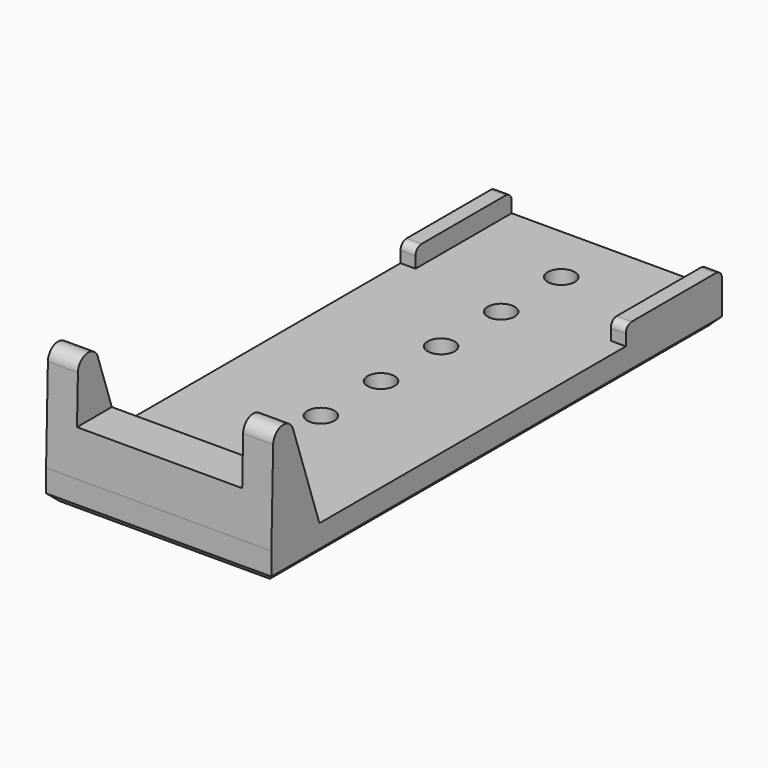
from build123d import *

# Parameters (mm, degrees)
SKETCH_W        = 30
SKETCH_H        = 75
PAD_DEPTH       = 20
POCKET_DEPTH    = 30.001
POCKET001_DEPTH = 30.001
SKETCH003_R     = 1.8
POCKET002_DEPTH = 18.001
SKETCH004_W     = 22
SKETCH004_H     = 10
POCKET003_DEPTH = 75.001
SKETCH005_W     = 1.992782
SKETCH005_H     = 16
SKETCH005_W_2   = 2
PAD001_DEPTH    = 2.5
FILLET_R        = 1
CHAMFER_SIZE    = 1


with BuildPart() as part:
    # Sketch → Pad (new body)
    with BuildSketch(Plane.XY):
        with Locations((0, 50.5)):
            Rectangle(SKETCH_W, SKETCH_H)
    extrude(amount=PAD_DEPTH)

    # Sketch001 → Pocket (cut, through all)
    with BuildSketch(Plane(origin=(-15, 0, 0), x_dir=(0, -1, 0), z_dir=(-1, 0, 0))):
        Polygon((-90.237335, 21), (-17.197588, 21), (-21.197588, 4), (-90.237335, 4), align=None)
    extrude(amount=-POCKET_DEPTH, mode=Mode.SUBTRACT)

    # Sketch002 → Pocket001 (cut, through all)
    with BuildSketch(Plane(origin=(-15, 0, 0), x_dir=(0, -1, 0), z_dir=(-1, 0, 0))):
        with BuildLine():
            ThreePointArc((-13.300504, 16.341381), (-14.741789, 17.980276), (-16.608656, 16.849752))
            Line((-16.608656, 16.849752), (-21.00001, 4))
            Line((-25, 4), (-21.00001, 4))
            Line((-25, 18.137928), (-25, 4))
            Line((-25, 18.137928), (-12.210917, 22))
            Line((-12.210917, 22), (-13, 4))
            Line((-13, 4), (-13.300504, 16.341381))
        make_face()
    extrude(amount=-POCKET001_DEPTH, mode=Mode.SUBTRACT)

    # Sketch003 → Pocket002 (cut, through all)
    with BuildSketch(Plane(origin=(0, 0, 0), x_dir=(1, 0, 0), z_dir=(0, 0, -1))):
        with Locations((0, -80)):
            Circle(SKETCH003_R)
        with Locations((0, -70)):
            Circle(SKETCH003_R)
        with Locations((0, -60)):
            Circle(SKETCH003_R)
        with Locations((0, -50)):
            Circle(SKETCH003_R)
        with Locations((0, -40)):
            Circle(SKETCH003_R)
        with Locations((0, -30)):
            Circle(SKETCH003_R)
    extrude(amount=-POCKET002_DEPTH, mode=Mode.SUBTRACT)

    # Sketch004 → Pocket003 (cut, through all)
    with BuildSketch(Plane.XZ.offset(-13)):
        with Locations((0, 15)):
            Rectangle(SKETCH004_W, SKETCH004_H)
    extrude(amount=-POCKET003_DEPTH, mode=Mode.SUBTRACT)

    # Sketch005 → Pad001 (new body)
    with BuildSketch(Plane.XY.offset(4)):
        with Locations((-13.996391, 80)):
            Rectangle(SKETCH005_W, SKETCH005_H)
        with Locations((14, 80)):
            Rectangle(SKETCH005_W_2, SKETCH005_H)
    extrude(amount=PAD001_DEPTH)

    # Fillet
    fillet_edges = [part.edges().sort_by_distance(p)[0] for p in [
        (-13.996391, 72, 6.5),
        (14, 72, 6.5),
        (14, 88, 6.5),
        (-13.996391, 88, 6.5),
    ]]
    fillet(fillet_edges, radius=FILLET_R)

    # Chamfer
    chamfer_edges = [part.edges().sort_by_distance(p)[0] for p in [
        (0, 13, 0),
        (15, 50.5, 0),
        (-15, 50.5, 0),
        (0, 88, 0),
    ]]
    chamfer(chamfer_edges, length=CHAMFER_SIZE)


solid = part.part
